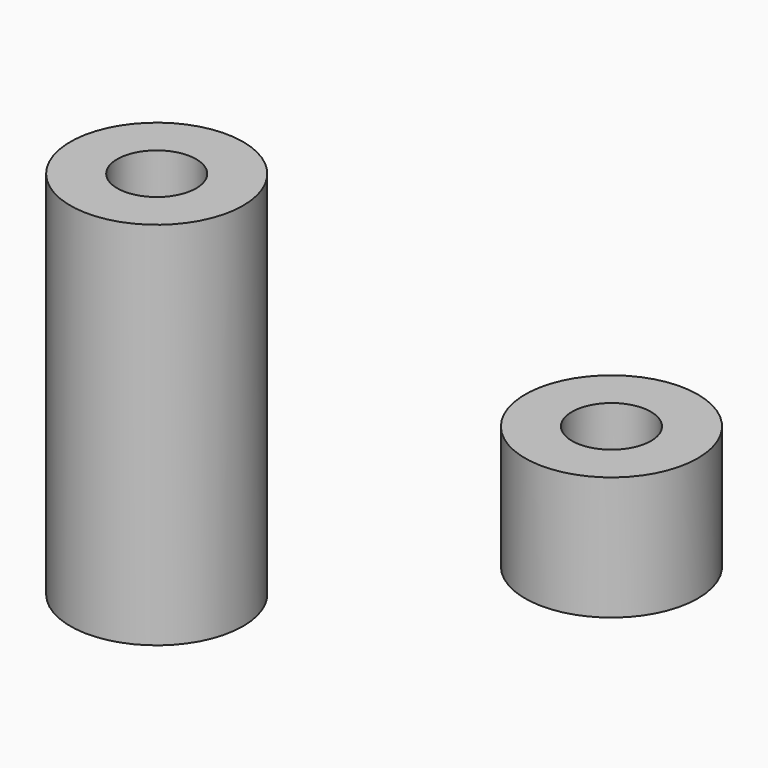
from build123d import *

# Parameters (mm, degrees)
F0_R     = 3.5
F0_R_2   = 1.6
F1_DEPTH = 5
F2_DEPTH = 15


with BuildPart() as f1:
    # F0 (on Top) → F1 (new body)
    with BuildSketch(Plane.XY):
        with Locations((-37.944864, 23.092708)):
            Circle(F0_R)
        with Locations((-37.944864, 23.092708)):
            Circle(F0_R_2, mode=Mode.SUBTRACT)
    extrude(amount=F1_DEPTH)


with BuildPart() as f2:
    # F0 (on Top) → F2 (new body)
    with BuildSketch(Plane.XY):
        with Locations((-47.991004, 12.621165)):
            Circle(F0_R)
        with Locations((-47.991004, 12.621165)):
            Circle(F0_R_2, mode=Mode.SUBTRACT)
    extrude(amount=F2_DEPTH)


solid = Compound([f1.part, f2.part])
